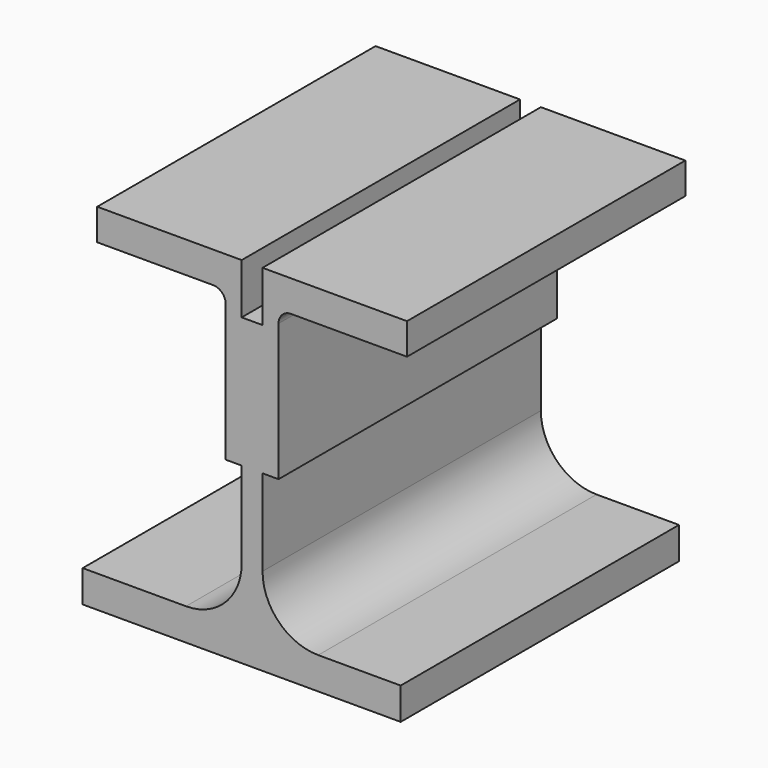
from build123d import *

# Parameters (mm, degrees)
F1_DEPTH = 63.5


with BuildPart() as f1:
    # F0 (on Front) → F1 (new body)
    with BuildSketch(Plane.XZ):
        with BuildLine():
            Line((-38.926816, 29.203531), (-65.292016, 29.203531))
            Line((-65.292016, 29.203531), (-65.292016, 23.488531))
            Line((-65.292016, 23.488531), (-44.133816, 23.488531))
            ThreePointArc((-44.133816, 23.488531), (-42.51737, 22.818978), (-41.847816, 21.202531))
            Line((-41.847816, 21.202531), (-41.847816, -3.816469))
            Line((-41.847816, -3.816469), (-38.926816, -3.816469))
            Line((-38.926816, -3.816469), (-38.926816, 19.998351))
            Line((-38.926816, 19.998351), (-38.926816, 29.203531))
        make_face()
        with BuildLine():
            Line((-35.116816, 19.998351), (-38.926816, 19.998351))
            Line((-38.926816, 19.998351), (-38.926816, -3.816469))
            Line((-38.926816, -3.816469), (-38.926816, -19.564469))
            ThreePointArc((-38.926816, -19.564469), (-41.902612, -26.748673), (-49.086816, -29.724469))
            Line((-49.086816, -29.724469), (-67.946316, -29.724469))
            Line((-67.946316, -29.724469), (-67.946316, -35.566469))
            Line((-67.946316, -35.566469), (-9.907316, -35.566469))
            Line((-9.907316, -35.566469), (-9.907316, -29.724469))
            Line((-9.907316, -29.724469), (-24.956816, -29.724469))
            ThreePointArc((-24.956816, -29.724469), (-32.141021, -26.748673), (-35.116816, -19.564469))
            Line((-35.116816, -19.564469), (-35.116816, -3.816469))
            Line((-35.116816, -3.816469), (-35.116816, 19.998351))
        make_face()
        with BuildLine():
            Line((-35.116816, 29.203531), (-35.116816, 19.998351))
            Line((-35.116816, 19.998351), (-35.116816, -3.816469))
            Line((-35.116816, -3.816469), (-32.195816, -3.816469))
            Line((-32.195816, -3.816469), (-32.195816, 21.202531))
            ThreePointArc((-32.195816, 21.202531), (-31.526263, 22.818978), (-29.909816, 23.488531))
            Line((-29.909816, 23.488531), (-8.751616, 23.488531))
            Line((-8.751616, 23.488531), (-8.751616, 29.203531))
            Line((-8.751616, 29.203531), (-35.116816, 29.203531))
        make_face()
    extrude(amount=F1_DEPTH)


solid = f1.part
